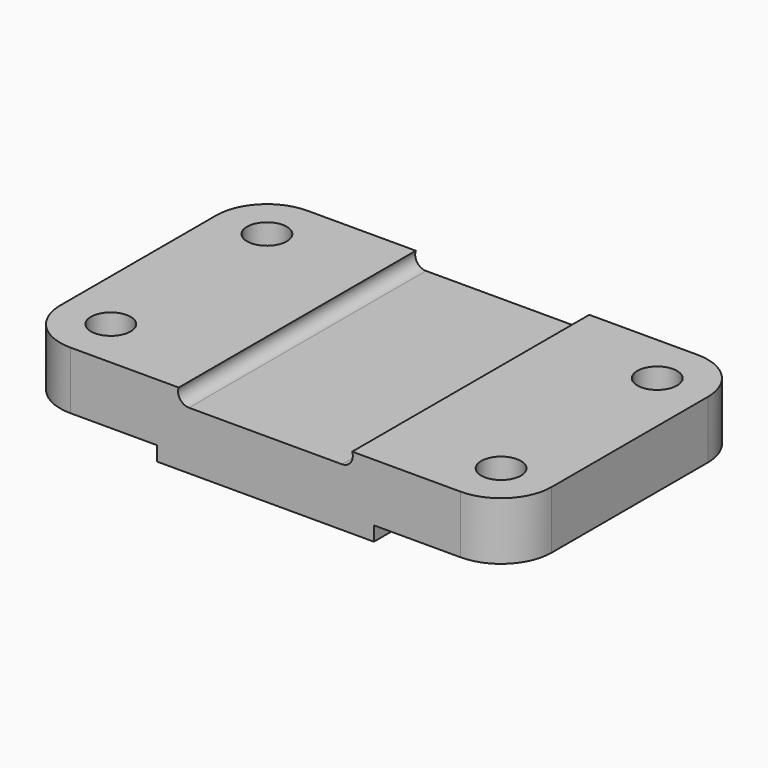
from build123d import *

# Parameters (mm, degrees)
F1_DEPTH = 82
F2_R     = 5.5
F3_DEPTH = 20.001
F5_DEPTH = 20.001


with BuildPart() as f1:
    # F0 (on Front) → F1 (new body)
    with BuildSketch(Plane.XZ):
        with BuildLine():
            Line((0, 16), (0, 0))
            Line((0, 0), (38, 0))
            Line((38, 0), (38, -4))
            Line((38, -4), (98, -4))
            Line((98, -4), (98, 0))
            Line((98, 0), (136, 0))
            Line((136, 0), (136, 16))
            Line((136, 16), (92, 16))
            ThreePointArc((92, 16), (91.621063, 13.267949), (89.171573, 12))
            Line((89.171573, 12), (46.828427, 12))
            ThreePointArc((46.828427, 12), (44.378937, 13.267949), (44, 16))
            Line((44, 16), (0, 16))
        make_face()
    extrude(amount=F1_DEPTH)

    # F2 (on face) → F3 (cut, through all)
    with BuildSketch(Plane.XY.offset(16)):
        with Locations((14, -14)):
            Circle(F2_R)
        with Locations((14, -68)):
            Circle(F2_R)
        with Locations((122, -14)):
            Circle(F2_R)
        with Locations((122, -68)):
            Circle(F2_R)
    extrude(amount=-F3_DEPTH, mode=Mode.SUBTRACT)

    # F4 (on face) → F5 (cut, through all)
    with BuildSketch(Plane.XY.offset(16)):
        with BuildLine():
            Line((14, 0), (0, 0))
            Line((0, 0), (0, -14))
            ThreePointArc((0, -14), (4.100505, -4.100505), (14, 0))
        make_face()
        with BuildLine():
            Line((0, -68), (0, -82))
            Line((0, -82), (14, -82))
            ThreePointArc((14, -82), (4.100505, -77.899495), (0, -68))
        make_face()
        with BuildLine():
            Line((136, 0), (122, 0))
            ThreePointArc((122, 0), (131.899495, -4.100505), (136, -14))
            Line((136, -14), (136, 0))
        make_face()
        with BuildLine():
            Line((136, -82), (136, -68))
            ThreePointArc((136, -68), (131.899495, -77.899495), (122, -82))
            Line((122, -82), (136, -82))
        make_face()
    extrude(amount=-F5_DEPTH, mode=Mode.SUBTRACT)


solid = f1.part
